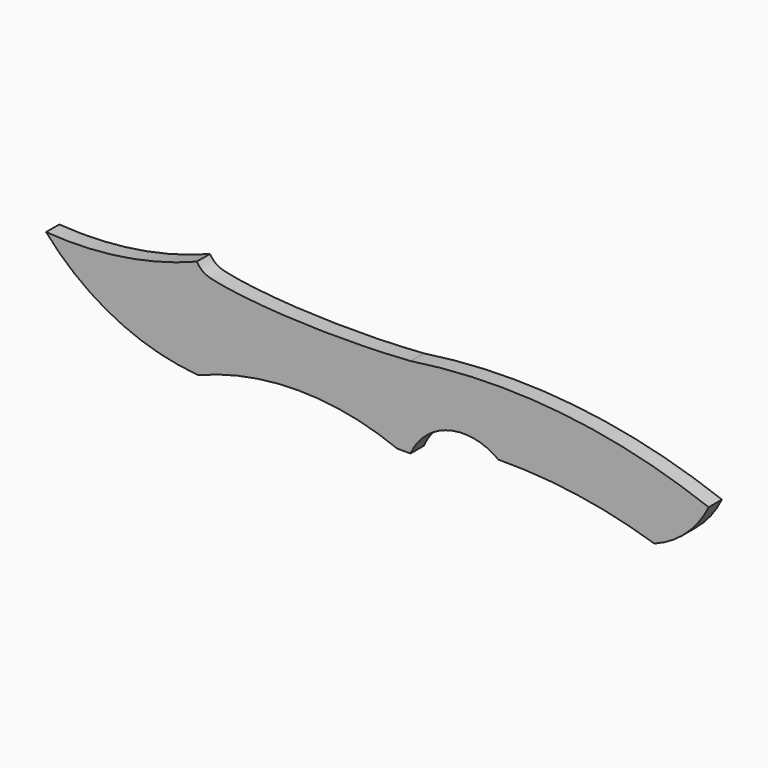
from build123d import *

# Parameters (mm, degrees)
F1_DEPTH = 6.35


with BuildPart() as f1:
    # F0 (on Front) → F1 (new body)
    with BuildSketch(Plane.XZ):
        with BuildLine():
            add(Edge.make_bspline(
                [(-69.2670494318, 19.05), (-67.3128640728, 16.2248080447), (-60.969426566, 13.3476320625), (-22.1680297811, 9.7510011569), (12.7, 12.1750152693)],
                knots=[0, 0, 0, 0, 0.2505960164, 1, 1, 1, 1], degree=3))
            ThreePointArc((-69.2670494318, 19.05), (-97.6377356755, 11.397017146), (-127, 10.2474875748))
            ThreePointArc((-127, 10.2474875748), (-100.6736295618, -10.1512932616), (-68.58, -19.05))
            ThreePointArc((-68.58, -19.05), (-30.48, -11.7126104241), (7.62, -19.05))
            Line((7.62, -19.05), (12.7, -19.05))
            ThreePointArc((12.7, -19.05), (27.4012824935, -6.4499702137), (46.4045489641, -10.16))
            ThreePointArc((46.4045489641, -10.16), (76.642998398, -12.2201918698), (106.172, -19.05))
            ThreePointArc((106.172, -19.05), (118.4151863409, -11.5249103993), (127, 0))
            ThreePointArc((127, 0), (70.6277336889, 13.3889326164), (12.7, 12.1750152693))
        make_face()
    extrude(amount=F1_DEPTH)


solid = f1.part
